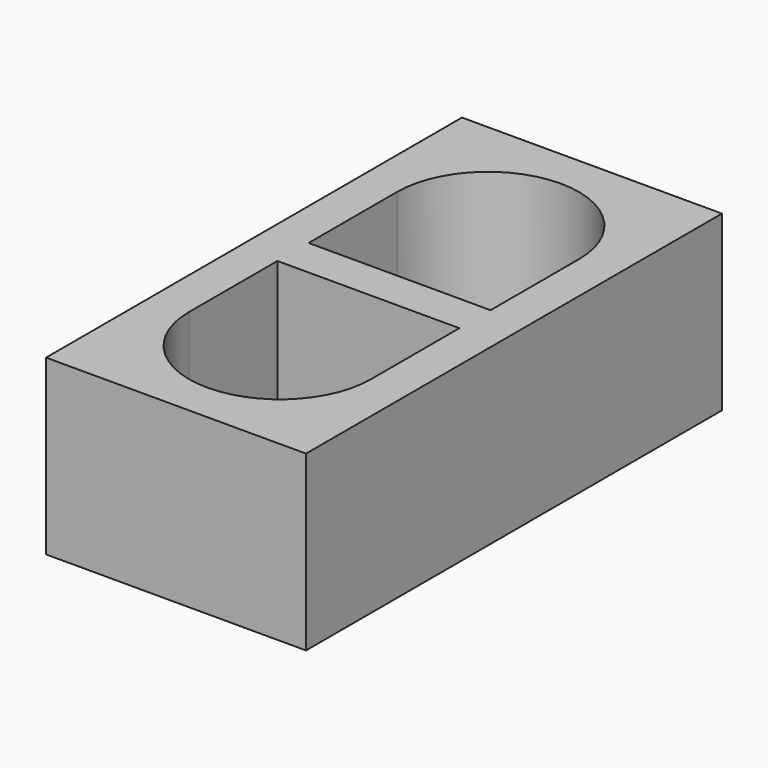
from build123d import *

# Parameters (mm, degrees)
SKETCH_W     = 600
SKETCH_H     = 400
PAD_DEPTH    = 1200
POCKET_DEPTH = 400.001


with BuildPart() as part:
    # Sketch → Pad (new body)
    with BuildSketch(Plane.XZ):
        Rectangle(SKETCH_W, SKETCH_H)
    extrude(amount=PAD_DEPTH)

    # Sketch001 (on Face1 of Pad) → Pocket (cut, through all)
    with BuildSketch(Plane(origin=(0, 0, 200), x_dir=(-1, 0, 0), z_dir=(0, 0, 1))):
        with BuildLine():
            Line((-210, 900), (-210, 645))
            Line((-210, 645), (210, 645))
            Line((210, 900), (210, 645))
            ThreePointArc((210, 900), (0, 1110), (-210, 900))
        make_face()
        with BuildLine():
            ThreePointArc((-210, 300), (0, 90), (210, 300))
            Line((210, 555), (210, 300))
            Line((-210, 555), (210, 555))
            Line((-210, 555), (-210, 300))
        make_face()
    extrude(amount=-POCKET_DEPTH, mode=Mode.SUBTRACT)


solid = part.part
